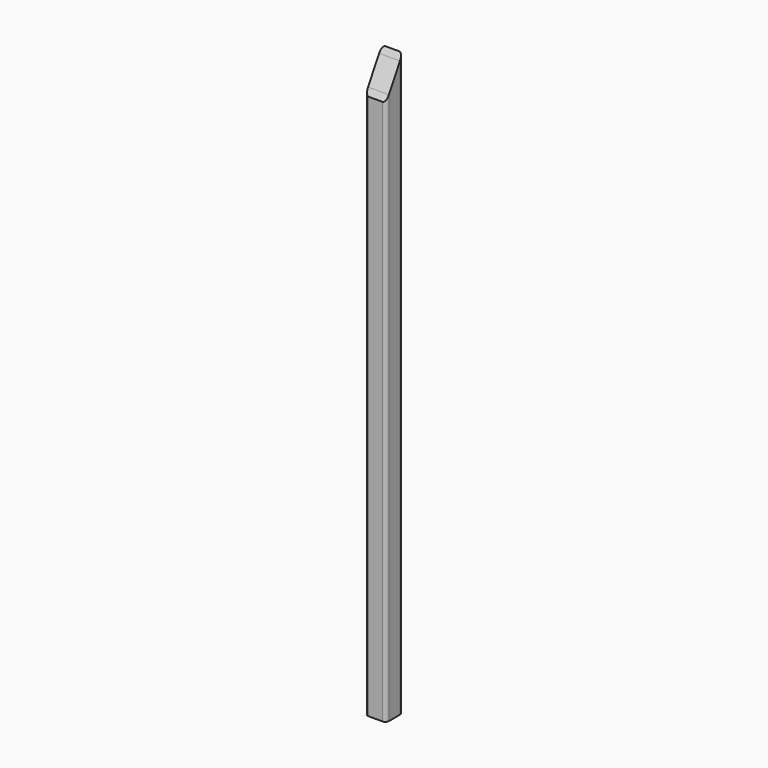
from build123d import *

# Parameters (mm, degrees)
F1_DEPTH = 1063.625
F3_DEPTH = 38.1


with BuildPart() as f1:
    # F0 (on Top) → F1 (new body)
    with BuildSketch(Plane.XY):
        with BuildLine():
            ThreePointArc((19.05, 12.7), (17.1901280605, 17.1901280605), (12.7, 19.05))
            Line((12.7, 19.05), (-12.7, 19.05))
            ThreePointArc((-12.7, 19.05), (-17.1901280605, 17.1901280605), (-19.05, 12.7))
            Line((-19.05, 12.7), (-19.05, -12.7))
            ThreePointArc((-19.05, -12.7), (-17.1901280605, -17.1901280605), (-12.7, -19.05))
            Line((-12.7, -19.05), (12.7, -19.05))
            ThreePointArc((12.7, -19.05), (17.1901280605, -17.1901280605), (19.05, -12.7))
            Line((19.05, -12.7), (19.05, 12.7))
        make_face()
    extrude(amount=F1_DEPTH)

    # F2 (on face) → F3 (cut)
    with BuildSketch(Plane(origin=(-19.05, 0, 0), x_dir=(0, -1, 0), z_dir=(-1, 0, 0))):
        Polygon((12.7, 1063.625), (12.7, 1008.6323868597), (19.05, 997.6338642316), (19.05, 1063.625), align=None)
        Polygon((-12.7, 1063.625), (-12.7, 1052.6264773719), (12.7, 1008.6323868597), (12.7, 1063.625), align=None)
        Polygon((-12.7, 1063.625), (-19.05, 1063.625), (-12.7, 1052.6264773719), align=None)
    extrude(amount=-F3_DEPTH, mode=Mode.SUBTRACT)


solid = f1.part
